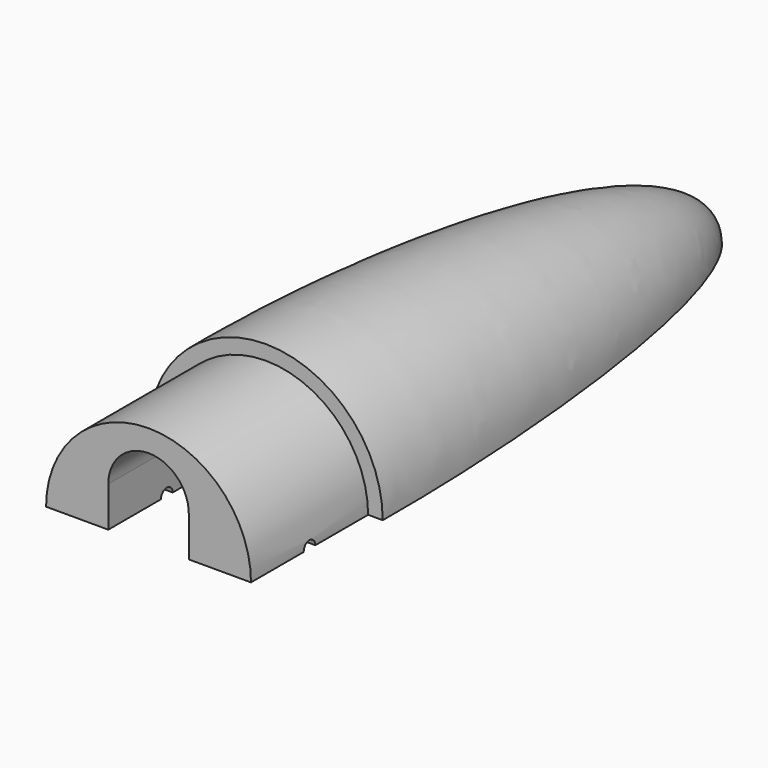
from build123d import *

# Parameters (mm, degrees)
F0_W     = 8.5
F0_H     = 20
F2_ANGLE = -180
F3_DEPTH = 65
F5_R     = 1
F6_DEPTH = 28


with BuildPart() as f2:
    # F0 (on Top) → F2 (revolve)
    with BuildSketch(Plane.XY):
        with BuildLine():
            Line((0, 95), (0, 65))
            Line((0, 65), (5.5, 65))
            Line((5.5, 65), (5.5, 20))
            Line((5.5, 20), (14, 20))
            Line((14, 20), (16, 20))
            add(Edge.make_bspline(
                [(0, 95), (11.437606, 95.100096), (16.261564, 47.378998), (16, 20)],
                knots=[0, 0, 0, 0, 76.687678, 76.687678, 76.687678, 76.687678], degree=3))
        make_face()
        with Locations((9.75, 10)):
            Rectangle(F0_W, F0_H)
    revolve(axis=Axis((0, 57.5, 0), (0, 1, 0)), revolution_arc=F2_ANGLE)

    # F1 (on Front) → F3 (cut)
    with BuildSketch(Plane.XZ):
        with BuildLine():
            Line((0, 5.5), (0, 0))
            ThreePointArc((0, 0), (3.889087, 1.610913), (5.5, 5.5))
            Line((5.5, 5.5), (0, 5.5))
        make_face()
        with BuildLine():
            ThreePointArc((5.5, 5.5), (3.889087, 1.610913), (0, 0))
            Line((0, 0), (5.5, 0))
            Line((5.5, 0), (5.5, 5.5))
        make_face()
        with BuildLine():
            Line((-5.5, 0), (0, 0))
            ThreePointArc((0, 0), (-3.889087, 1.610913), (-5.5, 5.5))
            Line((-5.5, 5.5), (-5.5, 0))
        make_face()
        with BuildLine():
            ThreePointArc((-5.5, 5.5), (-3.889087, 1.610913), (0, 0))
            Line((0, 0), (0, 5.5))
            Line((0, 5.5), (-5.5, 5.5))
        make_face()
        with BuildLine():
            Line((-5.5, 5.5), (0, 5.5))
            Line((0, 5.5), (0, 11))
            ThreePointArc((0, 11), (-3.889087, 9.389087), (-5.5, 5.5))
        make_face()
        with BuildLine():
            Line((0, 11), (0, 5.5))
            Line((0, 5.5), (5.5, 5.5))
            ThreePointArc((5.5, 5.5), (3.889087, 9.389087), (0, 11))
        make_face()
    extrude(amount=-F3_DEPTH, mode=Mode.SUBTRACT)

    # F5 (on offset) → F6 (cut)
    with BuildSketch(Plane.YZ.offset(14)):
        with Locations((10, 0.00426)):
            Circle(F5_R)
    extrude(amount=-F6_DEPTH, mode=Mode.SUBTRACT)


solid = f2.part
